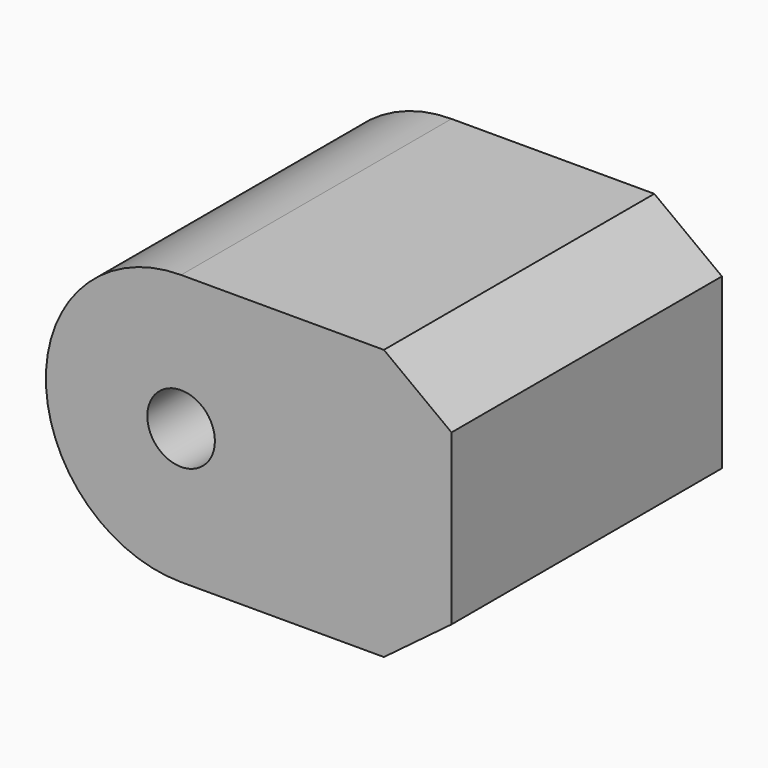
from build123d import *

# Parameters (mm, degrees)
F0_R     = 2.5
F1_DEPTH = 25


with BuildPart() as f1:
    # F0 (on Front) → F1 (new body)
    with BuildSketch(Plane.XZ):
        with BuildLine():
            Line((15, 10), (0, 10))
            ThreePointArc((0, 10), (-10, 0), (0, -10))
            Line((0, -10), (15, -10))
            Line((15, -10), (20, -6.25))
            Line((20, -6.25), (20, 6.25))
            Line((20, 6.25), (15, 10))
        make_face()
        Circle(F0_R, mode=Mode.SUBTRACT)
    extrude(amount=F1_DEPTH)


solid = f1.part
